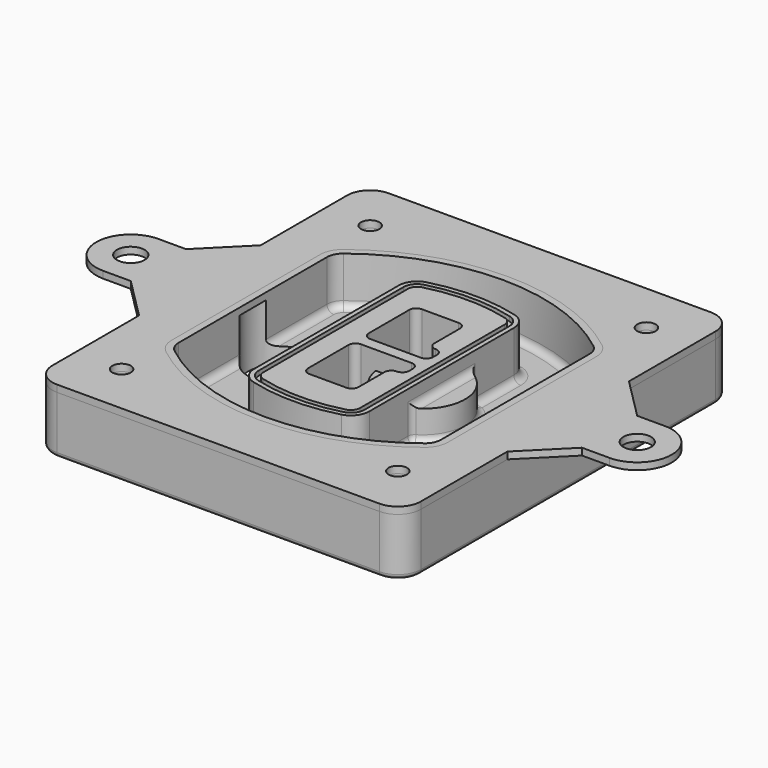
from build123d import *

# Parameters (mm, degrees)
F0_R      = 4
F1_DEPTH  = 25
F2_DEPTH  = 3
F3_DEPTH  = 18
F5_DEPTH  = 21
F6_DEPTH  = 2
F8_DEPTH  = 20
F9_DEPTH  = 16
F10_DEPTH = 25
F7_R      = 6
F7_R_2    = 4
F11_DEPTH = 6
F13_DEPTH = 9
F14_R     = 3
F15_R     = 2
F16_R     = 6
F16_R_2   = 4
F17_DEPTH = 3


with BuildPart() as f1:
    # F0 (on Top) → F1 (new body)
    with BuildSketch(Plane.XY):
        with BuildLine():
            ThreePointArc((-80, -80), (-77.0710678119, -87.0710678119), (-70, -90))
            Line((-70, -90), (70, -90))
            ThreePointArc((70, -90), (77.0710678119, -87.0710678119), (80, -80))
            Line((80, -80), (80, 80))
            ThreePointArc((80, 80), (77.0710678119, 87.0710678119), (70, 90))
            Line((70, 90), (-70, 90))
            ThreePointArc((-70, 90), (-77.0710678119, 87.0710678119), (-80, 80))
            Line((-80, 80), (-80, -80))
        make_face()
        with Locations((-60, -67.5)):
            Circle(F0_R, mode=Mode.SUBTRACT)
        with Locations((60, -67.5)):
            Circle(F0_R, mode=Mode.SUBTRACT)
        with Locations((-60, 67.5)):
            Circle(F0_R, mode=Mode.SUBTRACT)
        with BuildLine():
            ThreePointArc((-64, 40.2934422872), (-62.5820384798, 46.4328484224), (-58.6153846154, 51.3286200352))
            ThreePointArc((-58.6153846154, 51.3286200352), (0, 71.5), (58.6153846154, 51.3286200352))
            ThreePointArc((58.6153846154, 51.3286200352), (62.5820384798, 46.4328484224), (64, 40.2934422872))
            Line((64, 40.2934422872), (64, -40.2934422872))
            ThreePointArc((64, -40.2934422872), (62.5820384798, -46.4328484224), (58.6153846154, -51.3286200352))
            ThreePointArc((58.6153846154, -51.3286200352), (0, -71.5), (-58.6153846154, -51.3286200352))
            ThreePointArc((-58.6153846154, -51.3286200352), (-62.5820384798, -46.4328484224), (-64, -40.2934422872))
            Line((-64, -40.2934422872), (-64, 40.2934422872))
        make_face(mode=Mode.SUBTRACT)
        with Locations((60, 67.5)):
            Circle(F0_R, mode=Mode.SUBTRACT)
        with BuildLine():
            ThreePointArc((58.6153846154, 51.3286200352), (0, 71.5), (-58.6153846154, 51.3286200352))
            ThreePointArc((-58.6153846154, 51.3286200352), (-62.5820384798, 46.4328484224), (-64, 40.2934422872))
            Line((-64, 40.2934422872), (-64, -40.2934422872))
            ThreePointArc((-64, -40.2934422872), (-62.5820384798, -46.4328484224), (-58.6153846154, -51.3286200352))
            ThreePointArc((-58.6153846154, -51.3286200352), (0, -71.5), (58.6153846154, -51.3286200352))
            ThreePointArc((58.6153846154, -51.3286200352), (62.5820384798, -46.4328484224), (64, -40.2934422872))
            Line((64, -40.2934422872), (64, 40.2934422872))
            ThreePointArc((64, 40.2934422872), (62.5820384798, 46.4328484224), (58.6153846154, 51.3286200352))
        make_face()
        with BuildLine():
            Line((-60, -40.2934422872), (-60, 40.2934422872))
            ThreePointArc((-60, 40.2934422872), (-58.9871703427, 44.6787323838), (-56.1538461538, 48.1757121072))
            ThreePointArc((-56.1538461538, 48.1757121072), (0, 67.5), (56.1538461538, 48.1757121072))
            ThreePointArc((56.1538461538, 48.1757121072), (58.9871703427, 44.6787323838), (60, 40.2934422872))
            Line((60, 40.2934422872), (60, -40.2934422872))
            ThreePointArc((60, -40.2934422872), (58.9871703427, -44.6787323838), (56.1538461538, -48.1757121072))
            ThreePointArc((56.1538461538, -48.1757121072), (0, -67.5), (-56.1538461538, -48.1757121072))
            ThreePointArc((-56.1538461538, -48.1757121072), (-58.9871703427, -44.6787323838), (-60, -40.2934422872))
        make_face(mode=Mode.SUBTRACT)
        with BuildLine():
            ThreePointArc((-56.1538461538, 48.1757121072), (-58.9871703427, 44.6787323838), (-60, 40.2934422872))
            Line((-60, 40.2934422872), (-60, -40.2934422872))
            ThreePointArc((-60, -40.2934422872), (-58.9871703427, -44.6787323838), (-56.1538461538, -48.1757121072))
            ThreePointArc((-56.1538461538, -48.1757121072), (0, -67.5), (56.1538461538, -48.1757121072))
            ThreePointArc((56.1538461538, -48.1757121072), (58.9871703427, -44.6787323838), (60, -40.2934422872))
            Line((60, -40.2934422872), (60, 40.2934422872))
            ThreePointArc((60, 40.2934422872), (58.9871703427, 44.6787323838), (56.1538461538, 48.1757121072))
            ThreePointArc((56.1538461538, 48.1757121072), (0, 67.5), (-56.1538461538, 48.1757121072))
        make_face()
        with BuildLine():
            ThreePointArc((54.3076923077, 45.8110311612), (56.2910192399, 43.3631453548), (57, 40.2934422872))
            Line((57, 40.2934422872), (57, -40.2934422872))
            ThreePointArc((57, -40.2934422872), (56.2910192399, -43.3631453548), (54.3076923077, -45.8110311612))
            ThreePointArc((54.3076923077, -45.8110311612), (0, -64.5), (-54.3076923077, -45.8110311612))
            ThreePointArc((-54.3076923077, -45.8110311612), (-56.2910192399, -43.3631453548), (-57, -40.2934422872))
            Line((-57, -40.2934422872), (-57, 40.2934422872))
            ThreePointArc((-57, 40.2934422872), (-56.2910192399, 43.3631453548), (-54.3076923077, 45.8110311612))
            ThreePointArc((-54.3076923077, 45.8110311612), (0, 64.5), (54.3076923077, 45.8110311612))
        make_face(mode=Mode.SUBTRACT)
        with BuildLine():
            Line((57, -40.2934422872), (57, 40.2934422872))
            ThreePointArc((57, 40.2934422872), (56.2910192399, 43.3631453548), (54.3076923077, 45.8110311612))
            ThreePointArc((54.3076923077, 45.8110311612), (0, 64.5), (-54.3076923077, 45.8110311612))
            ThreePointArc((-54.3076923077, 45.8110311612), (-56.2910192399, 43.3631453548), (-57, 40.2934422872))
            Line((-57, 40.2934422872), (-57, -40.2934422872))
            ThreePointArc((-57, -40.2934422872), (-56.2910192399, -43.3631453548), (-54.3076923077, -45.8110311612))
            ThreePointArc((-54.3076923077, -45.8110311612), (0, -64.5), (54.3076923077, -45.8110311612))
            ThreePointArc((54.3076923077, -45.8110311612), (56.2910192399, -43.3631453548), (57, -40.2934422872))
        make_face()
    extrude(amount=-F1_DEPTH)

    # F0 (on Top) → F2 (join)
    with BuildSketch(Plane.XY):
        with BuildLine():
            ThreePointArc((-56.1538461538, 48.1757121072), (-58.9871703427, 44.6787323838), (-60, 40.2934422872))
            Line((-60, 40.2934422872), (-60, -40.2934422872))
            ThreePointArc((-60, -40.2934422872), (-58.9871703427, -44.6787323838), (-56.1538461538, -48.1757121072))
            ThreePointArc((-56.1538461538, -48.1757121072), (0, -67.5), (56.1538461538, -48.1757121072))
            ThreePointArc((56.1538461538, -48.1757121072), (58.9871703427, -44.6787323838), (60, -40.2934422872))
            Line((60, -40.2934422872), (60, 40.2934422872))
            ThreePointArc((60, 40.2934422872), (58.9871703427, 44.6787323838), (56.1538461538, 48.1757121072))
            ThreePointArc((56.1538461538, 48.1757121072), (0, 67.5), (-56.1538461538, 48.1757121072))
        make_face()
        with BuildLine():
            ThreePointArc((54.3076923077, 45.8110311612), (56.2910192399, 43.3631453548), (57, 40.2934422872))
            Line((57, 40.2934422872), (57, -40.2934422872))
            ThreePointArc((57, -40.2934422872), (56.2910192399, -43.3631453548), (54.3076923077, -45.8110311612))
            ThreePointArc((54.3076923077, -45.8110311612), (0, -64.5), (-54.3076923077, -45.8110311612))
            ThreePointArc((-54.3076923077, -45.8110311612), (-56.2910192399, -43.3631453548), (-57, -40.2934422872))
            Line((-57, -40.2934422872), (-57, 40.2934422872))
            ThreePointArc((-57, 40.2934422872), (-56.2910192399, 43.3631453548), (-54.3076923077, 45.8110311612))
            ThreePointArc((-54.3076923077, 45.8110311612), (0, 64.5), (54.3076923077, 45.8110311612))
        make_face(mode=Mode.SUBTRACT)
    extrude(amount=F2_DEPTH)

    # F0 (on Top) → F3 (cut)
    with BuildSketch(Plane.XY):
        with BuildLine():
            Line((57, -40.2934422872), (57, 40.2934422872))
            ThreePointArc((57, 40.2934422872), (56.2910192399, 43.3631453548), (54.3076923077, 45.8110311612))
            ThreePointArc((54.3076923077, 45.8110311612), (0, 64.5), (-54.3076923077, 45.8110311612))
            ThreePointArc((-54.3076923077, 45.8110311612), (-56.2910192399, 43.3631453548), (-57, 40.2934422872))
            Line((-57, 40.2934422872), (-57, -40.2934422872))
            ThreePointArc((-57, -40.2934422872), (-56.2910192399, -43.3631453548), (-54.3076923077, -45.8110311612))
            ThreePointArc((-54.3076923077, -45.8110311612), (0, -64.5), (54.3076923077, -45.8110311612))
            ThreePointArc((54.3076923077, -45.8110311612), (56.2910192399, -43.3631453548), (57, -40.2934422872))
        make_face()
    extrude(amount=-F3_DEPTH, mode=Mode.SUBTRACT)

    # F4 (on face) → F5 (join, through all)
    with BuildSketch(Plane.XY.offset(3)):
        with BuildLine():
            ThreePointArc((-25, -39.2465276821), (-23.3511545998, -44.1109737193), (-19.0842911877, -46.9702398883))
            ThreePointArc((-19.0842911877, -46.9702398883), (0, -49.5), (19.0842911877, -46.9702398883))
            ThreePointArc((19.0842911877, -46.9702398883), (23.3511545998, -44.1109737193), (25, -39.2465276821))
            Line((25, -39.2465276821), (25, 39.2465276821))
            ThreePointArc((25, 39.2465276821), (23.3511545998, 44.1109737193), (19.0842911877, 46.9702398883))
            ThreePointArc((19.0842911877, 46.9702398883), (0, 49.5), (-19.0842911877, 46.9702398883))
            ThreePointArc((-19.0842911877, 46.9702398883), (-23.3511545998, 44.1109737193), (-25, 39.2465276821))
            Line((-25, 39.2465276821), (-25, -39.2465276821))
        make_face()
        with BuildLine():
            ThreePointArc((18.5632183908, 45.0393118368), (21.7633659499, 42.89486221), (23, 39.2465276821))
            Line((23, 39.2465276821), (23, -39.2465276821))
            ThreePointArc((23, -39.2465276821), (21.7633659499, -42.89486221), (18.5632183908, -45.0393118368))
            ThreePointArc((18.5632183908, -45.0393118368), (0, -47.5), (-18.5632183908, -45.0393118368))
            ThreePointArc((-18.5632183908, -45.0393118368), (-21.7633659499, -42.89486221), (-23, -39.2465276821))
            Line((-23, -39.2465276821), (-23, 39.2465276821))
            ThreePointArc((-23, 39.2465276821), (-21.7633659499, 42.89486221), (-18.5632183908, 45.0393118368))
            ThreePointArc((-18.5632183908, 45.0393118368), (0, 47.5), (18.5632183908, 45.0393118368))
        make_face(mode=Mode.SUBTRACT)
        with BuildLine():
            Line((23, -39.2465276821), (23, 39.2465276821))
            ThreePointArc((23, 39.2465276821), (21.7633659499, 42.89486221), (18.5632183908, 45.0393118368))
            ThreePointArc((18.5632183908, 45.0393118368), (0, 47.5), (-18.5632183908, 45.0393118368))
            ThreePointArc((-18.5632183908, 45.0393118368), (-21.7633659499, 42.89486221), (-23, 39.2465276821))
            Line((-23, 39.2465276821), (-23, -39.2465276821))
            ThreePointArc((-23, -39.2465276821), (-21.7633659499, -42.89486221), (-18.5632183908, -45.0393118368))
            ThreePointArc((-18.5632183908, -45.0393118368), (0, -47.5), (18.5632183908, -45.0393118368))
            ThreePointArc((18.5632183908, -45.0393118368), (21.7633659499, -42.89486221), (23, -39.2465276821))
        make_face()
        with BuildLine():
            ThreePointArc((18.0421455939, 43.1083837852), (20.1755772999, 41.6787507007), (21, 39.2465276821))
            Line((21, 39.2465276821), (21, -39.2465276821))
            ThreePointArc((21, -39.2465276821), (20.1755772999, -41.6787507007), (18.0421455939, -43.1083837852))
            ThreePointArc((18.0421455939, -43.1083837852), (0, -45.5), (-18.0421455939, -43.1083837852))
            ThreePointArc((-18.0421455939, -43.1083837852), (-20.1755772999, -41.6787507007), (-21, -39.2465276821))
            Line((-21, -39.2465276821), (-21, 39.2465276821))
            ThreePointArc((-21, 39.2465276821), (-20.1755772999, 41.6787507007), (-18.0421455939, 43.1083837852))
            ThreePointArc((-18.0421455939, 43.1083837852), (0, 45.5), (18.0421455939, 43.1083837852))
        make_face(mode=Mode.SUBTRACT)
        with BuildLine():
            Line((21, -39.2465276821), (21, 39.2465276821))
            ThreePointArc((21, 39.2465276821), (20.1755772999, 41.6787507007), (18.0421455939, 43.1083837852))
            ThreePointArc((18.0421455939, 43.1083837852), (0, 45.5), (-18.0421455939, 43.1083837852))
            ThreePointArc((-18.0421455939, 43.1083837852), (-20.1755772999, 41.6787507007), (-21, 39.2465276821))
            Line((-21, 39.2465276821), (-21, -39.2465276821))
            ThreePointArc((-21, -39.2465276821), (-20.1755772999, -41.6787507007), (-18.0421455939, -43.1083837852))
            ThreePointArc((-18.0421455939, -43.1083837852), (0, -45.5), (18.0421455939, -43.1083837852))
            ThreePointArc((18.0421455939, -43.1083837852), (20.1755772999, -41.6787507007), (21, -39.2465276821))
        make_face()
        with BuildLine():
            Line((-8, -2.5), (14, -2.5))
            ThreePointArc((14, -2.5), (16.1213203436, -3.3786796564), (17, -5.5))
            Line((17, -5.5), (17, -7.5))
            ThreePointArc((17, -7.5), (16.1213203436, -9.6213203436), (14, -10.5))
            ThreePointArc((14, -10.5), (11.8786796564, -11.3786796564), (11, -13.5))
            Line((11, -13.5), (11, -27.5))
            ThreePointArc((11, -27.5), (10.1213203436, -29.6213203436), (8, -30.5))
            Line((8, -30.5), (-8, -30.5))
            ThreePointArc((-8, -30.5), (-10.1213203436, -29.6213203436), (-11, -27.5))
            Line((-11, -27.5), (-11, -5.5))
            ThreePointArc((-11, -5.5), (-10.1213203436, -3.3786796564), (-8, -2.5))
        make_face(mode=Mode.SUBTRACT)
        with BuildLine():
            ThreePointArc((-8, 2.5), (-10.1213203436, 3.3786796564), (-11, 5.5))
            Line((-11, 5.5), (-11, 27.5))
            ThreePointArc((-11, 27.5), (-10.1213203436, 29.6213203436), (-8, 30.5))
            Line((-8, 30.5), (8, 30.5))
            ThreePointArc((8, 30.5), (10.1213203436, 29.6213203436), (11, 27.5))
            Line((11, 27.5), (11, 13.5))
            ThreePointArc((11, 13.5), (11.8786796564, 11.3786796564), (14, 10.5))
            ThreePointArc((14, 10.5), (16.1213203436, 9.6213203436), (17, 7.5))
            Line((17, 7.5), (17, 5.5))
            ThreePointArc((17, 5.5), (16.1213203436, 3.3786796564), (14, 2.5))
            Line((14, 2.5), (-8, 2.5))
        make_face(mode=Mode.SUBTRACT)
    extrude(amount=-F5_DEPTH)

    # F4 (on face) → F6 (cut)
    with BuildSketch(Plane.XY.offset(3)):
        with BuildLine():
            Line((23, -39.2465276821), (23, 39.2465276821))
            ThreePointArc((23, 39.2465276821), (21.7633659499, 42.89486221), (18.5632183908, 45.0393118368))
            ThreePointArc((18.5632183908, 45.0393118368), (0, 47.5), (-18.5632183908, 45.0393118368))
            ThreePointArc((-18.5632183908, 45.0393118368), (-21.7633659499, 42.89486221), (-23, 39.2465276821))
            Line((-23, 39.2465276821), (-23, -39.2465276821))
            ThreePointArc((-23, -39.2465276821), (-21.7633659499, -42.89486221), (-18.5632183908, -45.0393118368))
            ThreePointArc((-18.5632183908, -45.0393118368), (0, -47.5), (18.5632183908, -45.0393118368))
            ThreePointArc((18.5632183908, -45.0393118368), (21.7633659499, -42.89486221), (23, -39.2465276821))
        make_face()
        with BuildLine():
            ThreePointArc((18.0421455939, 43.1083837852), (20.1755772999, 41.6787507007), (21, 39.2465276821))
            Line((21, 39.2465276821), (21, -39.2465276821))
            ThreePointArc((21, -39.2465276821), (20.1755772999, -41.6787507007), (18.0421455939, -43.1083837852))
            ThreePointArc((18.0421455939, -43.1083837852), (0, -45.5), (-18.0421455939, -43.1083837852))
            ThreePointArc((-18.0421455939, -43.1083837852), (-20.1755772999, -41.6787507007), (-21, -39.2465276821))
            Line((-21, -39.2465276821), (-21, 39.2465276821))
            ThreePointArc((-21, 39.2465276821), (-20.1755772999, 41.6787507007), (-18.0421455939, 43.1083837852))
            ThreePointArc((-18.0421455939, 43.1083837852), (0, 45.5), (18.0421455939, 43.1083837852))
        make_face(mode=Mode.SUBTRACT)
    extrude(amount=-F6_DEPTH, mode=Mode.SUBTRACT)

    # F7 (on face) → F8 (join)
    with BuildSketch(Plane(origin=(0, 0, -25), x_dir=(1, 0, 0), z_dir=(0, 0, -1))):
        with BuildLine():
            ThreePointArc((3.28842436, 0), (16.7567035675, 13.4682792075), (30.224982775, 0))
            Line((30.224982775, 0), (35.224982775, 0))
            ThreePointArc((35.224982775, 0), (16.7567035675, 18.4682792075), (-1.71157564, 0))
            Line((-1.71157564, 0), (3.28842436, 0))
        make_face()
        with BuildLine():
            Line((3.28842436, 0), (30.224982775, 0))
            ThreePointArc((30.224982775, 0), (16.7567035675, 13.4682792075), (3.28842436, 0))
        make_face()
        with BuildLine():
            ThreePointArc((3.28842436, 0), (16.7567035675, -13.4682792075), (30.224982775, 0))
            Line((30.224982775, 0), (3.28842436, 0))
        make_face()
        with BuildLine():
            Line((35.224982775, 0), (30.224982775, 0))
            ThreePointArc((30.224982775, 0), (16.7567035675, -13.4682792075), (3.28842436, 0))
            Line((3.28842436, 0), (-1.71157564, 0))
            ThreePointArc((-1.71157564, 0), (16.7567035675, -18.4682792075), (35.224982775, 0))
        make_face()
    extrude(amount=-F8_DEPTH)

    # F7 (on face) → F9 (cut)
    with BuildSketch(Plane(origin=(0, 0, -25), x_dir=(1, 0, 0), z_dir=(0, 0, -1))):
        with BuildLine():
            Line((3.28842436, 0), (30.224982775, 0))
            ThreePointArc((30.224982775, 0), (16.7567035675, 13.4682792075), (3.28842436, 0))
        make_face()
        with BuildLine():
            ThreePointArc((3.28842436, 0), (16.7567035675, -13.4682792075), (30.224982775, 0))
            Line((30.224982775, 0), (3.28842436, 0))
        make_face()
    extrude(amount=-F9_DEPTH, mode=Mode.SUBTRACT)

    # F7 (on face) → F10 (cut)
    with BuildSketch(Plane(origin=(0, 0, -25), x_dir=(1, 0, 0), z_dir=(0, 0, -1))):
        with BuildLine():
            Line((-59.0318229325, 0), (-32.0952645175, 0))
            ThreePointArc((-32.0952645175, 0), (-45.563543725, 13.4682792075), (-59.0318229325, 0))
        make_face()
        with BuildLine():
            ThreePointArc((-59.0318229325, 0), (-45.563543725, -13.4682792075), (-32.0952645175, 0))
            Line((-32.0952645175, 0), (-59.0318229325, 0))
        make_face()
    extrude(amount=-F10_DEPTH, mode=Mode.SUBTRACT)

    # F7 (on face) → F11 (cut)
    with BuildSketch(Plane(origin=(0, 0, -25), x_dir=(1, 0, 0), z_dir=(0, 0, -1))):
        with Locations((60, -67.5)):
            Circle(F7_R)
        with Locations((60, -67.5)):
            Circle(F7_R_2, mode=Mode.SUBTRACT)
        with Locations((60, -67.5)):
            Circle(F7_R)
        with Locations((60, -67.5)):
            Circle(F7_R_2, mode=Mode.SUBTRACT)
        with Locations((-60, -67.5)):
            Circle(F7_R)
        with Locations((-60, -67.5)):
            Circle(F7_R_2, mode=Mode.SUBTRACT)
        with Locations((-60, -67.5)):
            Circle(F7_R)
        with Locations((-60, -67.5)):
            Circle(F7_R_2, mode=Mode.SUBTRACT)
        with Locations((-60, 67.5)):
            Circle(F7_R)
        with Locations((-60, 67.5)):
            Circle(F7_R_2, mode=Mode.SUBTRACT)
        with Locations((-60, 67.5)):
            Circle(F7_R)
        with Locations((-60, 67.5)):
            Circle(F7_R_2, mode=Mode.SUBTRACT)
        with Locations((60, 67.5)):
            Circle(F7_R)
        with Locations((60, 67.5)):
            Circle(F7_R_2, mode=Mode.SUBTRACT)
        with Locations((60, 67.5)):
            Circle(F7_R)
        with Locations((60, 67.5)):
            Circle(F7_R_2, mode=Mode.SUBTRACT)
    extrude(amount=-F11_DEPTH, mode=Mode.SUBTRACT)

    # F12 (on face) → F13 (cut, through all)
    with BuildSketch(Plane(origin=(0, 0, -9), x_dir=(1, 0, 0), z_dir=(0, 0, -1))):
        with BuildLine():
            Line((11, 13.5), (11, 17.5481537753))
            ThreePointArc((11, 17.5481537753), (2.5696536419, 11.8239143813), (-1.5415842455, 2.5))
            Line((-1.5415842455, 2.5), (3.5224848595, 2.5))
            ThreePointArc((3.5224848595, 2.5), (6.1857188154, 8.3455872281), (11.2536447004, 12.2927168648))
            ThreePointArc((11.2536447004, 12.2927168648), (11.0640958889, 12.8831798879), (11, 13.5))
        make_face()
        with BuildLine():
            ThreePointArc((11.2536447004, -12.2927168648), (6.1857188154, -8.3455872281), (3.5224848595, -2.5))
            Line((3.5224848595, -2.5), (-1.5415842455, -2.5))
            ThreePointArc((-1.5415842455, -2.5), (2.5696536419, -11.8239143813), (11, -17.5481537753))
            Line((11, -17.5481537753), (11, -13.5))
            ThreePointArc((11, -13.5), (11.0640958889, -12.8831798879), (11.2536447004, -12.2927168648))
        make_face()
        with BuildLine():
            ThreePointArc((11.2536447004, 12.2927168648), (6.1857188154, 8.3455872281), (3.5224848595, 2.5))
            Line((3.5224848595, 2.5), (14, 2.5))
            ThreePointArc((14, 2.5), (16.1213203436, 3.3786796564), (17, 5.5))
            Line((17, 5.5), (17, 7.5))
            ThreePointArc((17, 7.5), (16.1213203436, 9.6213203436), (14, 10.5))
            ThreePointArc((14, 10.5), (12.3601599782, 10.9878446101), (11.2536447004, 12.2927168648))
        make_face()
        with BuildLine():
            Line((14, -2.5), (3.5224848595, -2.5))
            ThreePointArc((3.5224848595, -2.5), (6.1857188154, -8.3455872281), (11.2536447004, -12.2927168648))
            ThreePointArc((11.2536447004, -12.2927168648), (12.3601599782, -10.9878446101), (14, -10.5))
            ThreePointArc((14, -10.5), (16.1213203436, -9.6213203436), (17, -7.5))
            Line((17, -7.5), (17, -5.5))
            ThreePointArc((17, -5.5), (16.1213203436, -3.3786796564), (14, -2.5))
        make_face()
    extrude(amount=F13_DEPTH, mode=Mode.SUBTRACT)

    # F14
    f14_edges = [f1.edges().sort_by_distance(p)[0] for p in [
        (-57, -23.703476, -18),
        (-57, 23.703476, -18),
        (25, 0, -5),
        (25, 16.526506, -11.5),
        (25, -16.526506, -11.5),
        (25, -27.886517, -18),
        (35.224983, 0, -18),
    ]]
    fillet(f14_edges, radius=F14_R)

    # F15
    f15_edges = [f1.edges().sort_by_distance(p)[0] for p in [
        (0, -90, -25),
    ]]
    fillet(f15_edges, radius=F15_R)


with BuildPart() as f17:
    # F16 (on face) → F17 (new body, through all)
    with BuildSketch(Plane.XY):
        with BuildLine():
            Line((-80, -33), (-80, 33))
            Line((-80, 33), (-98, 15))
            Line((-98, 15), (-105.3362033069, 15))
            Line((-105.3362033069, 15), (-110, 15))
            ThreePointArc((-110, 15), (-125, 0), (-110, -15))
            Line((-110, -15), (-105.3362033069, -15))
            Line((-105.3362033069, -15), (-98, -15))
            Line((-98, -15), (-80, -33))
        make_face()
        with Locations((-110, 0)):
            Circle(F16_R, mode=Mode.SUBTRACT)
        with BuildLine():
            Line((80, 33), (80, 80))
            ThreePointArc((80, 80), (77.0710678119, 87.0710678119), (70, 90))
            Line((70, 90), (-70, 90))
            ThreePointArc((-70, 90), (-77.0710678119, 87.0710678119), (-80, 80))
            Line((-80, 80), (-80, 33))
            Line((-80, 33), (-80, -33))
            Line((-80, -33), (-80, -80))
            ThreePointArc((-80, -80), (-77.0710678119, -87.0710678119), (-70, -90))
            Line((-70, -90), (70, -90))
            ThreePointArc((70, -90), (77.0710678119, -87.0710678119), (80, -80))
            Line((80, -80), (80, -33))
            Line((80, -33), (80, 33))
        make_face()
        with Locations((-60, -67.5)):
            Circle(F16_R_2, mode=Mode.SUBTRACT)
        with Locations((60, -67.5)):
            Circle(F16_R_2, mode=Mode.SUBTRACT)
        with Locations((-60, 67.5)):
            Circle(F16_R_2, mode=Mode.SUBTRACT)
        with BuildLine():
            ThreePointArc((-56.1538461538, 48.1757121072), (0, 67.5), (56.1538461538, 48.1757121072))
            ThreePointArc((56.1538461538, 48.1757121072), (58.9871703427, 44.6787323838), (60, 40.2934422872))
            Line((60, 40.2934422872), (60, -40.2934422872))
            ThreePointArc((60, -40.2934422872), (58.9871703427, -44.6787323838), (56.1538461538, -48.1757121072))
            ThreePointArc((56.1538461538, -48.1757121072), (0, -67.5), (-56.1538461538, -48.1757121072))
            ThreePointArc((-56.1538461538, -48.1757121072), (-58.9871703427, -44.6787323838), (-60, -40.2934422872))
            Line((-60, -40.2934422872), (-60, 40.2934422872))
            ThreePointArc((-60, 40.2934422872), (-58.9871703427, 44.6787323838), (-56.1538461538, 48.1757121072))
        make_face(mode=Mode.SUBTRACT)
        with Locations((60, 67.5)):
            Circle(F16_R_2, mode=Mode.SUBTRACT)
        with BuildLine():
            Line((98, 15), (80, 33))
            Line((80, 33), (80, -33))
            Line((80, -33), (98, -15))
            Line((98, -15), (105.3362033069, -15))
            Line((105.3362033069, -15), (110, -15))
            ThreePointArc((110, -15), (125, 0), (110, 15))
            Line((110, 15), (105.3362033069, 15))
            Line((105.3362033069, 15), (98, 15))
        make_face()
        with Locations((110, 0)):
            Circle(F16_R, mode=Mode.SUBTRACT)
    extrude(amount=F17_DEPTH)


solid = Compound([f1.part, f17.part])
